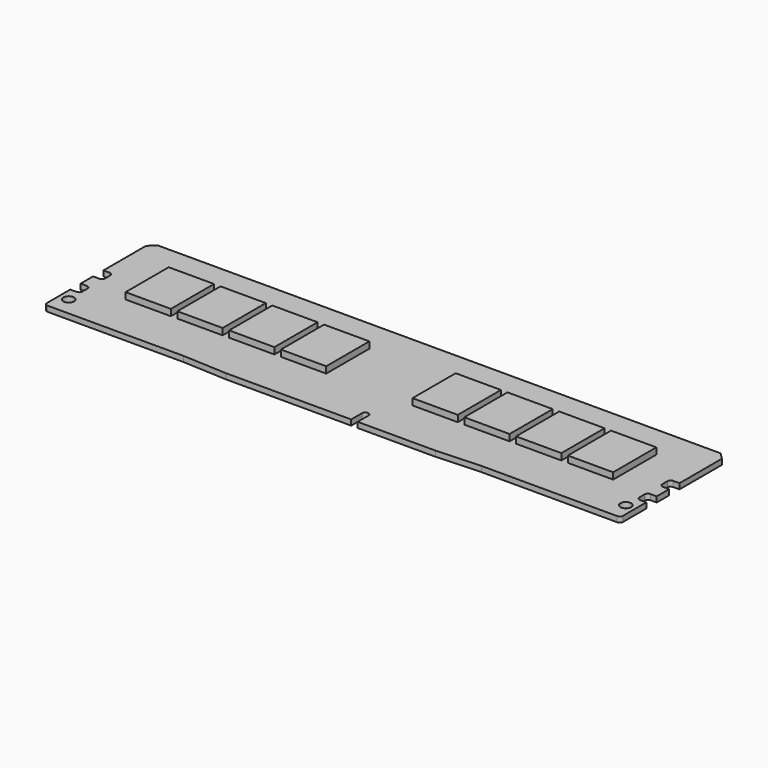
from build123d import *

# Parameters (mm, degrees)
F0_R     = 1.25
F1_DEPTH = 1.27
F2_W     = 10.5
F2_H     = 12.5
F3_DEPTH = 1.5
F4_DEPTH = 2.77


with BuildPart() as f1:
    # F0 (on Top) → F1 (new body)
    with BuildSketch(Plane.XY):
        with BuildLine():
            ThreePointArc((-66.75, -14.45), (-66.53033, -14.98033), (-66, -15.2))
            Line((-66, -15.2), (-34.5, -15.2))
            Line((-34.5, -15.2), (-24.3, -15.7))
            Line((-24.3, -15.7), (4.75, -15.7))
            Line((4.75, -15.7), (4.75, -12.55))
            ThreePointArc((4.75, -12.55), (4.96967, -12.01967), (5.5, -11.8))
            ThreePointArc((5.5, -11.8), (6.03033, -12.01967), (6.25, -12.55))
            Line((6.25, -12.55), (6.25, -15.7))
            Line((6.25, -15.7), (24.3, -15.7))
            Line((24.3, -15.7), (34.5, -15.2))
            Line((34.5, -15.2), (66, -15.2))
            ThreePointArc((66, -15.2), (66.53033, -14.98033), (66.75, -14.45))
            Line((66.75, -14.45), (66.75, -7.7))
            Line((66.75, -7.7), (65.3, -7.7))
            ThreePointArc((65.3, -7.7), (64.76967, -7.48033), (64.55, -6.95))
            Line((64.55, -6.95), (64.55, -5.45))
            ThreePointArc((64.55, -5.45), (64.76967, -4.91967), (65.3, -4.7))
            Line((65.3, -4.7), (66.75, -4.7))
            Line((66.75, -4.7), (66.75, -1.1))
            Line((66.75, -1.1), (65.3, -1.1))
            ThreePointArc((65.3, -1.1), (64.76967, -0.88033), (64.55, -0.35))
            Line((64.55, -0.35), (64.55, 1.15))
            ThreePointArc((64.55, 1.15), (64.76967, 1.68033), (65.3, 1.9))
            Line((65.3, 1.9), (66.75, 1.9))
            Line((66.75, 1.9), (66.75, 14.2))
            Line((66.75, 14.2), (65.25, 15.7))
            Line((65.25, 15.7), (-65.25, 15.7))
            Line((-65.25, 15.7), (-66.75, 14.2))
            Line((-66.75, 14.2), (-66.75, 1.9))
            Line((-66.75, 1.9), (-65.3, 1.9))
            ThreePointArc((-65.3, 1.9), (-64.76967, 1.68033), (-64.55, 1.15))
            Line((-64.55, 1.15), (-64.55, -0.35))
            ThreePointArc((-64.55, -0.35), (-64.76967, -0.88033), (-65.3, -1.1))
            Line((-65.3, -1.1), (-66.75, -1.1))
            Line((-66.75, -1.1), (-66.75, -4.7))
            Line((-66.75, -4.7), (-65.3, -4.7))
            ThreePointArc((-65.3, -4.7), (-64.76967, -4.91967), (-64.55, -5.45))
            Line((-64.55, -5.45), (-64.55, -6.95))
            ThreePointArc((-64.55, -6.95), (-64.76967, -7.48033), (-65.3, -7.7))
            Line((-65.3, -7.7), (-66.75, -7.7))
            Line((-66.75, -7.7), (-66.75, -14.45))
        make_face()
        with Locations((-64.55, -10.9)):
            Circle(F0_R, mode=Mode.SUBTRACT)
        with Locations((64.55, -10.9)):
            Circle(F0_R, mode=Mode.SUBTRACT)
    extrude(amount=F1_DEPTH)

    # F2 (on face) → F3 (join)
    with BuildSketch(Plane.XY.offset(1.27)):
        with Locations((-51.25, 1.75)):
            Rectangle(F2_W, F2_H)
        with Locations((-39.25, 1.75)):
            Rectangle(F2_W, F2_H)
        with Locations((-27.25, 1.75)):
            Rectangle(F2_W, F2_H)
        with Locations((-15.25, 1.75)):
            Rectangle(F2_W, F2_H)
        with Locations((51.25, 1.75)):
            Rectangle(F2_W, F2_H)
        with Locations((39.25, 1.75)):
            Rectangle(F2_W, F2_H)
        with Locations((15.25, 1.75)):
            Rectangle(F2_W, F2_H)
        with Locations((27.25, 1.75)):
            Rectangle(F2_W, F2_H)
    extrude(amount=F3_DEPTH)

    # F2 (on face) → F4 (join)
    with BuildSketch(Plane.XY.offset(1.27)):
        with Locations((-51.25, 1.75)):
            Rectangle(F2_W, F2_H)
        with Locations((-39.25, 1.75)):
            Rectangle(F2_W, F2_H)
        with Locations((-27.25, 1.75)):
            Rectangle(F2_W, F2_H)
        with Locations((-15.25, 1.75)):
            Rectangle(F2_W, F2_H)
        with Locations((51.25, 1.75)):
            Rectangle(F2_W, F2_H)
        with Locations((39.25, 1.75)):
            Rectangle(F2_W, F2_H)
        with Locations((15.25, 1.75)):
            Rectangle(F2_W, F2_H)
        with Locations((27.25, 1.75)):
            Rectangle(F2_W, F2_H)
    extrude(amount=-F4_DEPTH)


solid = f1.part
